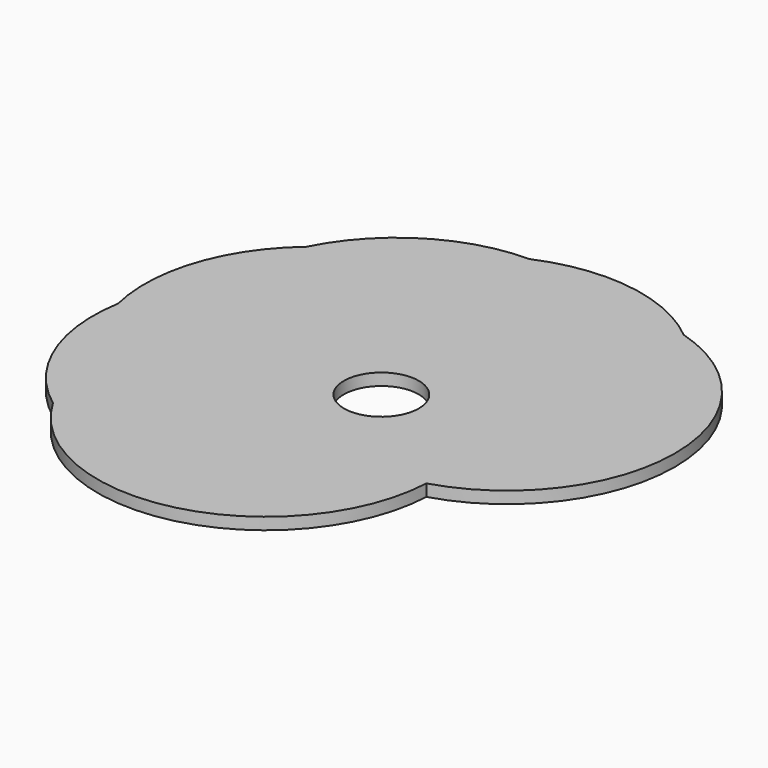
from build123d import *

# Parameters (mm, degrees)
F0_R     = 70.413899
F1_DEPTH = 5
F2_R     = 15.708766
F3_DEPTH = 5.001
F4_COUNT = 6
F4_ANGLE = 200


with BuildPart() as f1:
    # F0 (on Top) → F1 (new body)
    with BuildSketch(Plane.XY):
        Circle(F0_R)
    extrude(amount=F1_DEPTH)

    # F2 (on face) → F3 (cut, through all)
    with BuildSketch(Plane.XY.offset(5)):
        with Locations((-30.731812, -27.514353)):
            Circle(F2_R)
    extrude(amount=-F3_DEPTH, mode=Mode.SUBTRACT)

    # F4: F1 ×6 about axis
    f4_axis = Axis((-30.731812, -27.514353, 0), (0, 0, 1))


with BuildPart() as f1_1:
    add(f1.part)
    for i in range(1, F4_COUNT):
        add(f1.part.rotate(f4_axis, i * F4_ANGLE / (F4_COUNT - 1)))


solid = f1_1.part
